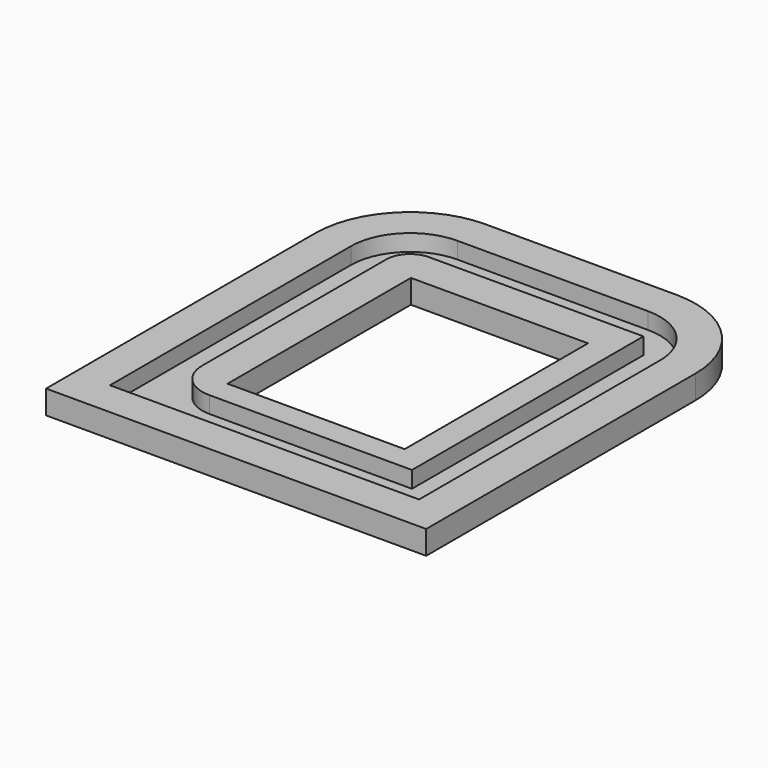
from build123d import *

# Parameters (mm, degrees)
F1_DEPTH = 0.6
F0_W     = 14.97182
F0_H     = 19.371433
F2_DEPTH = 2


with BuildPart() as f1:
    # F0 (on Top) → F1 (new body)
    with BuildSketch(Plane.XY):
        with BuildLine():
            Line((-13.600235, 22.844931), (-29.731723, 22.844931))
            ThreePointArc((-29.731723, 22.844931), (-33.267257, 21.380465), (-34.731723, 17.844931))
            Line((-34.731723, 17.844931), (-34.731723, -7.614977))
            Line((-34.731723, -7.614977), (-8.600235, -7.614977))
            Line((-8.600235, -7.614977), (-8.600235, 17.844931))
            ThreePointArc((-8.600235, 17.844931), (-10.064701, 21.380465), (-13.600235, 22.844931))
        make_face()
        with BuildLine():
            ThreePointArc((-31.731723, 17.844931), (-31.145937, 19.259145), (-29.731723, 19.844931))
            Line((-29.731723, 19.844931), (-11.600235, 19.844931))
            Line((-11.600235, 19.844931), (-11.600235, -4.614977))
            Line((-11.600235, -4.614977), (-28.731723, -4.614977))
            ThreePointArc((-28.731723, -4.614977), (-30.853044, -3.736297), (-31.731723, -1.614977))
            Line((-31.731723, -1.614977), (-31.731723, 17.844931))
        make_face(mode=Mode.SUBTRACT)
    extrude(amount=F1_DEPTH)

    # F0 (on Top) → F2 (join)
    with BuildSketch(Plane.XY):
        with BuildLine():
            Line((-13.600235, 25.844931), (-29.731723, 25.844931))
            ThreePointArc((-29.731723, 25.844931), (-35.388578, 23.501785), (-37.731723, 17.844931))
            Line((-37.731723, 17.844931), (-37.731723, -10.614977))
            Line((-37.731723, -10.614977), (-5.600235, -10.614977))
            Line((-5.600235, -10.614977), (-5.600235, 17.844931))
            ThreePointArc((-5.600235, 17.844931), (-7.943381, 23.501785), (-13.600235, 25.844931))
        make_face()
        with BuildLine():
            ThreePointArc((-34.731723, 17.844931), (-33.267257, 21.380465), (-29.731723, 22.844931))
            Line((-29.731723, 22.844931), (-13.600235, 22.844931))
            ThreePointArc((-13.600235, 22.844931), (-10.064701, 21.380465), (-8.600235, 17.844931))
            Line((-8.600235, 17.844931), (-8.600235, -7.614977))
            Line((-8.600235, -7.614977), (-34.731723, -7.614977))
            Line((-34.731723, -7.614977), (-34.731723, 17.844931))
        make_face(mode=Mode.SUBTRACT)
        with BuildLine():
            Line((-11.600235, 19.844931), (-29.731723, 19.844931))
            ThreePointArc((-29.731723, 19.844931), (-31.145937, 19.259145), (-31.731723, 17.844931))
            Line((-31.731723, 17.844931), (-31.731723, -1.614977))
            ThreePointArc((-31.731723, -1.614977), (-30.853044, -3.736297), (-28.731723, -4.614977))
            Line((-28.731723, -4.614977), (-11.600235, -4.614977))
            Line((-11.600235, -4.614977), (-11.600235, 19.844931))
        make_face()
        with Locations((-21.324334, 7.095438)):
            Rectangle(F0_W, F0_H, mode=Mode.SUBTRACT)
    extrude(amount=F2_DEPTH)


solid = f1.part
